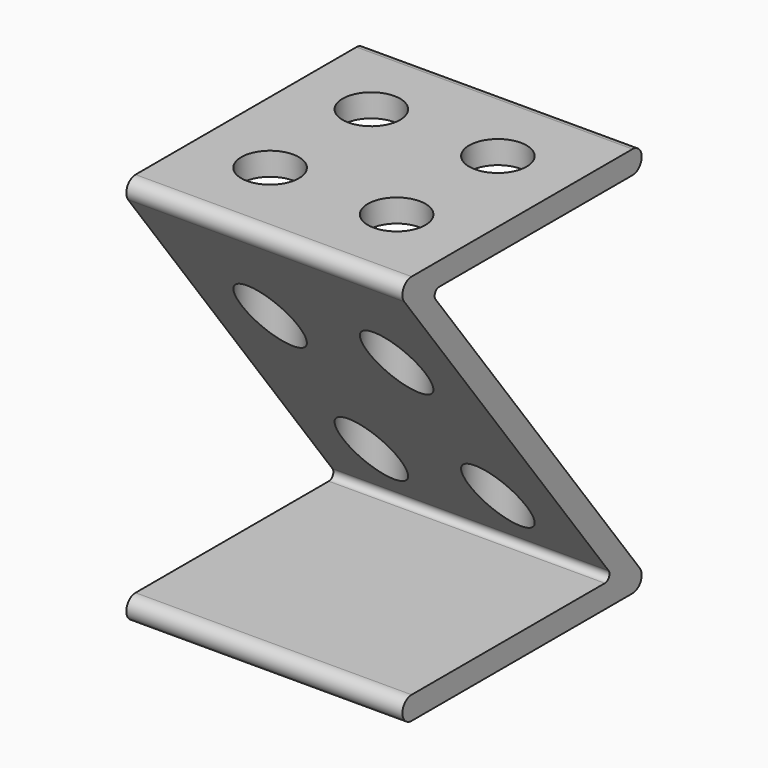
from build123d import *

# Parameters (mm, degrees)
F1_DEPTH = 38.1
F2_R     = 7.9375
F3_DEPTH = 98.425


with BuildPart() as f1:
    # F0 (on Right) → F1 (new body, symmetric)
    with BuildSketch(Plane.YZ):
        with BuildLine():
            ThreePointArc((29.845, -45.085), (29.994903, -46.747452), (28.575, -47.625))
            Line((28.575, -47.625), (-38.1, -47.625))
            ThreePointArc((-38.1, -47.625), (-41.275, -50.8), (-38.1, -53.975))
            Line((-38.1, -53.975), (38.1, -53.975))
            ThreePointArc((38.1, -53.975), (40.939806, -52.219903), (40.64, -48.895))
            Line((40.64, -48.895), (-29.845, 45.085))
            ThreePointArc((-29.845, 45.085), (-29.994903, 46.747452), (-28.575, 47.625))
            Line((-28.575, 47.625), (38.1, 47.625))
            ThreePointArc((38.1, 47.625), (41.275, 50.8), (38.1, 53.975))
            Line((38.1, 53.975), (-38.1, 53.975))
            ThreePointArc((-38.1, 53.975), (-40.939806, 52.219903), (-40.64, 48.895))
            Line((-40.64, 48.895), (29.845, -45.085))
        make_face()
    extrude(amount=F1_DEPTH, both=True)

    # F2 (on face) → F3 (cut)
    with BuildSketch(Plane.XY.offset(53.975)):
        with Locations((-17.4625, 17.4625)):
            Circle(F2_R)
        with Locations((17.4625, 17.4625)):
            Circle(F2_R)
        with Locations((-17.4625, -17.4625)):
            Circle(F2_R)
        with Locations((17.4625, -17.4625)):
            Circle(F2_R)
    extrude(amount=-F3_DEPTH, mode=Mode.SUBTRACT)


solid = f1.part
